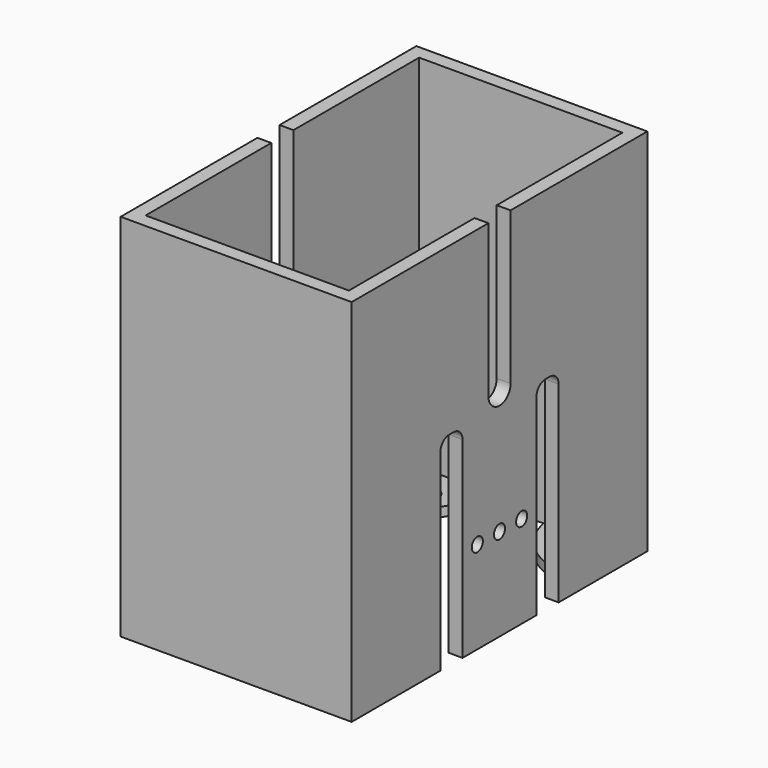
from build123d import *

# Parameters (mm, degrees)
F0_W      = 25
F0_H      = 40
F1_DEPTH  = 40
F2_W      = 22
F2_H      = 37
F3_DEPTH  = 40.001
F5_DEPTH  = 1
F6_R      = 1.35
F7_DEPTH  = 40.001
F8_W      = 3
F8_H      = 22
F9_DEPTH  = 25.001
F10_R     = 1.2
F11_R     = 0.75
F12_DEPTH = 25.001


with BuildPart() as f1:
    # F0 (on Top) → F1 (new body)
    with BuildSketch(Plane.XY):
        Rectangle(F0_W, F0_H)
    extrude(amount=F1_DEPTH)

    # F2 (on face) → F3 (cut, through all)
    with BuildSketch(Plane.XY.offset(40)):
        Rectangle(F2_W, F2_H)
    extrude(amount=-F3_DEPTH, mode=Mode.SUBTRACT)

    # F4 (on face) → F5 (join)
    with BuildSketch(Plane(origin=(0, 0, 0), x_dir=(1, 0, 0), z_dir=(0, 0, -1))):
        with BuildLine():
            Line((-11, 18.5), (-11, 11))
            ThreePointArc((-11, 11), (-5.696699, 13.196699), (-3.5, 18.5))
            Line((-3.5, 18.5), (-11, 18.5))
        make_face()
        with BuildLine():
            Line((11, 18.5), (3.5, 18.5))
            ThreePointArc((3.5, 18.5), (5.696699, 13.196699), (11, 11))
            Line((11, 11), (11, 18.5))
        make_face()
        with BuildLine():
            Line((11, -18.5), (11, -11))
            ThreePointArc((11, -11), (5.696699, -13.196699), (3.5, -18.5))
            Line((3.5, -18.5), (11, -18.5))
        make_face()
        with BuildLine():
            Line((-11, -18.5), (-3.5, -18.5))
            ThreePointArc((-3.5, -18.5), (-5.696699, -13.196699), (-11, -11))
            Line((-11, -11), (-11, -18.5))
        make_face()
    extrude(amount=-F5_DEPTH)

    # F6 (on face) → F7 (cut, through all)
    with BuildSketch(Plane(origin=(0, 0, 0), x_dir=(1, 0, 0), z_dir=(0, 0, -1))):
        with Locations((7.5, 15)):
            Circle(F6_R)
        with Locations((-7.5, 15)):
            Circle(F6_R)
        with Locations((7.5, -15)):
            Circle(F6_R)
        with Locations((-7.5, -15)):
            Circle(F6_R)
    extrude(amount=-F7_DEPTH, mode=Mode.SUBTRACT)

    # F8 (on face) → F9 (cut, through all)
    with BuildSketch(Plane.YZ.offset(12.5)):
        with Locations((-6.5, 11)):
            Rectangle(F8_W, F8_H)
        with Locations((6.5, 11)):
            Rectangle(F8_W, F8_H)
        with BuildLine():
            Line((-1.5, 40), (-1.5, 23.5))
            ThreePointArc((-1.5, 23.5), (0, 22), (1.5, 23.5))
            Line((1.5, 23.5), (1.5, 40))
            Line((1.5, 40), (-1.5, 40))
        make_face()
    extrude(amount=-F9_DEPTH, mode=Mode.SUBTRACT)

    # F10
    f10_edges = [f1.edges().sort_by_distance(p)[0] for p in [
        (11.75, -5, 22),
        (-11.75, -5, 22),
        (11.75, -8, 22),
        (-11.75, -8, 22),
        (11.75, 5, 22),
        (-11.75, 5, 22),
        (11.75, 8, 22),
        (-11.75, 8, 22),
    ]]
    fillet(f10_edges, radius=F10_R)

    # F11 (on face) → F12 (cut, through all)
    with BuildSketch(Plane.YZ.offset(12.5)):
        with Locations((-3, 10)):
            Circle(F11_R)
        with Locations((0, 10)):
            Circle(F11_R)
        with Locations((3, 10)):
            Circle(F11_R)
    extrude(amount=-F12_DEPTH, mode=Mode.SUBTRACT)


solid = f1.part
